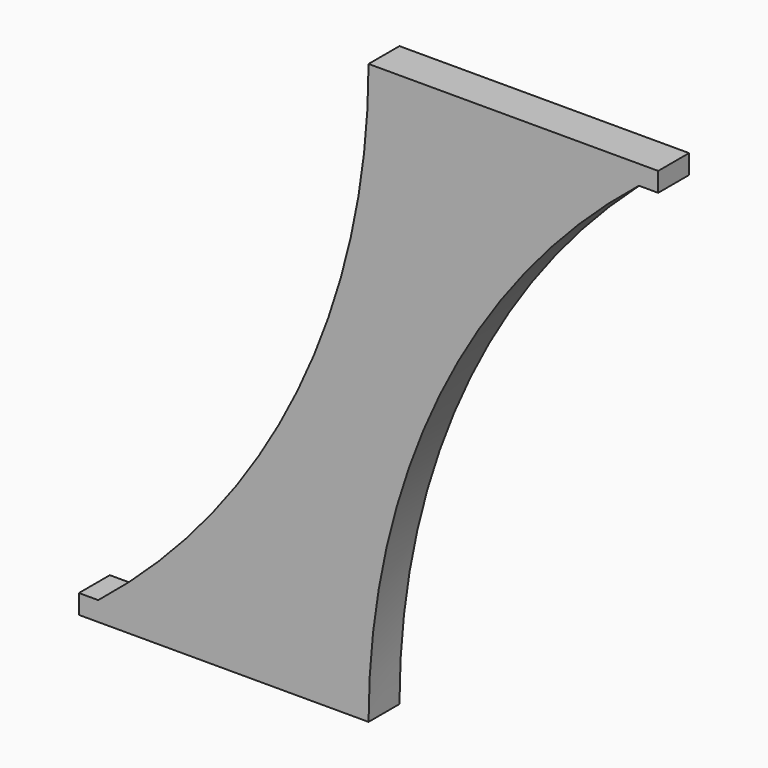
from build123d import *

# Parameters (mm, degrees)
F1_DEPTH = 20


with BuildPart() as f1:
    # F0 (on Front) → F1 (new body)
    with BuildSketch(Plane.XZ):
        with BuildLine():
            Line((0, 10), (0, 0))
            Line((0, 0), (150, 0))
            Line((150, 0), (150, 300))
            ThreePointArc((150, 300), (113.168588, 138.987578), (10, 10))
            Line((10, 10), (0, 10))
        make_face()
        with BuildLine():
            Line((150, 300), (150, 0))
            ThreePointArc((150, 0), (186.831412, 161.012422), (290, 290))
            Line((290, 290), (300, 290))
            Line((300, 290), (300, 300))
            Line((300, 300), (150, 300))
        make_face()
    extrude(amount=F1_DEPTH)


solid = f1.part
